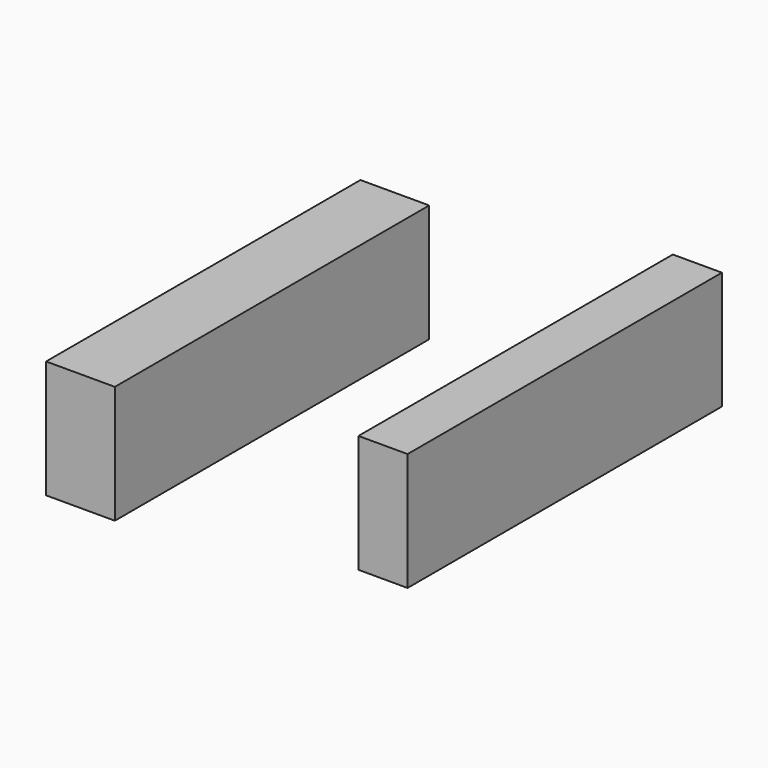
from build123d import *

# Parameters (mm, degrees)
BOX030_W     = 3
BOX030_H     = 10
BOX030_DEPTH = 1.25
BOX031_W     = 3
BOX031_H     = 10
BOX031_DEPTH = 1.75


with BuildPart() as cube029:
    # Box030 → Box030 (new body)
    with BuildSketch(Plane(origin=(9.5, -19.75, -7), x_dir=(0, 0, 1), z_dir=(-1, 0, 0))):
        with Locations((1.5, 5)):
            Rectangle(BOX030_W, BOX030_H)
    extrude(amount=BOX030_DEPTH)


with BuildPart() as topcuts:
    # Box031 → Box031 (new body)
    with BuildSketch(Plane(origin=(5.25, -23.75, -5.25), x_dir=(0, 0, 1), z_dir=(-1, 0, 0))):
        with Locations((1.5, 5)):
            Rectangle(BOX031_W, BOX031_H)
    extrude(amount=BOX031_DEPTH)

    # Fusion047: union Cube029
    add(cube029.part)


solid = topcuts.part
